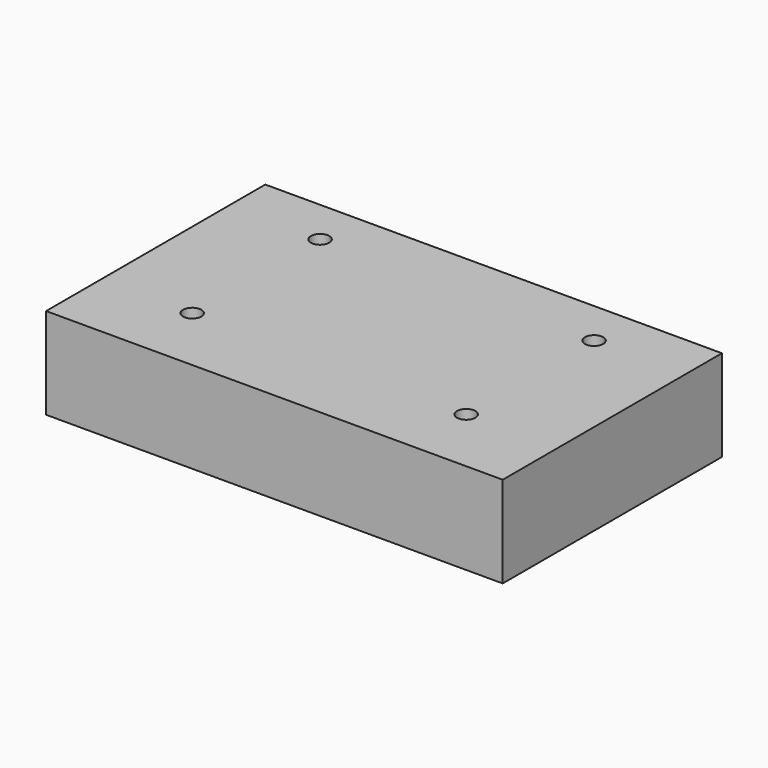
from build123d import *

# Parameters (mm, degrees)
F0_W     = 127
F0_H     = 76.2
F1_DEPTH = 25.4
F3_D     = 5.1054


with BuildPart() as f1:
    # F0 (on Top) → F1 (new body)
    with BuildSketch(Plane.XY):
        Rectangle(F0_W, F0_H)
        Rectangle(F0_W, F0_H)
    extrude(amount=F1_DEPTH)

    # F3 (through all)
    with Locations(Plane.XY.offset(25.4)):
        with Locations((-38.1, 25.4), (-38.1, -19.05), (38.1, 25.4), (38.1, -19.05)):
            Hole(F3_D / 2)


solid = f1.part
